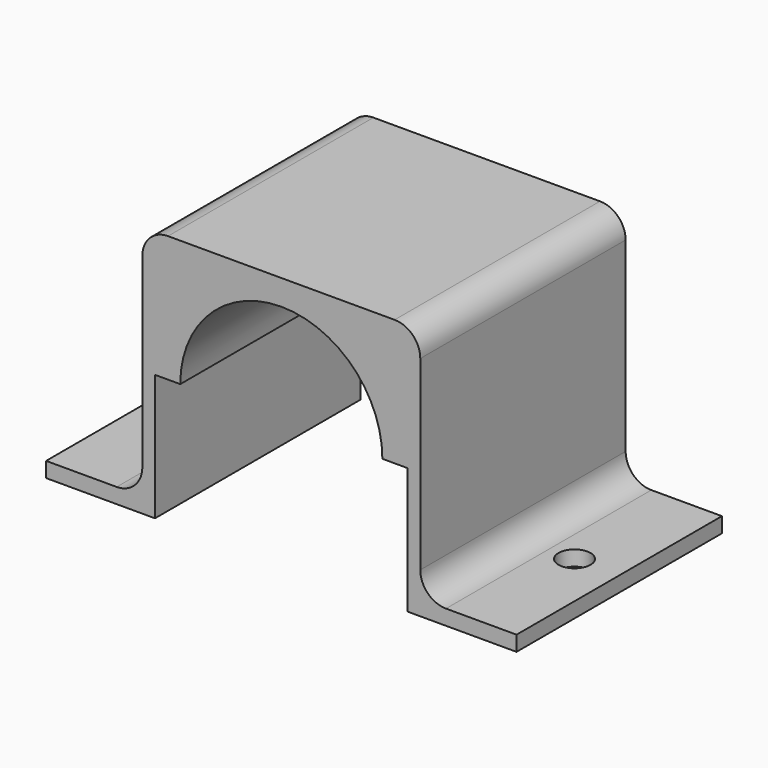
from build123d import *

# Parameters (mm, degrees)
F1_DEPTH = 50.8
F2_R     = 5.08
F3_R     = 5.08
F4_R     = 3.175
F5_DEPTH = 25.4


with BuildPart() as f1:
    # F0 (on Front) → F1 (new body)
    with BuildSketch(Plane.XZ):
        with BuildLine():
            Line((-25, -25), (-25, 0))
            Line((-25, 0), (-20, 0))
            ThreePointArc((-20, 0), (0, 20), (20, 0))
            Line((20, 0), (25, 0))
            Line((25, 0), (25, -25))
            Line((25, -25), (46.55, -25))
            Line((46.55, -25), (46.55, -22))
            Line((46.55, -22), (27.5, -22))
            Line((27.5, -22), (27.5, 0))
            Line((27.5, 0), (27.5, 25))
            Line((27.5, 25), (-27.5, 25))
            Line((-27.5, 25), (-27.5, 0))
            Line((-27.5, 0), (-27.5, -22))
            Line((-27.5, -22), (-46.55, -22))
            Line((-46.55, -22), (-46.55, -25))
            Line((-46.55, -25), (-25, -25))
        make_face()
        with BuildLine():
            Line((-25, -25), (-25, 0))
            Line((-25, 0), (-20, 0))
            ThreePointArc((-20, 0), (0, 20), (20, 0))
            Line((20, 0), (25, 0))
            Line((25, 0), (25, -25))
            Line((25, -25), (46.55, -25))
            Line((46.55, -25), (46.55, -22))
            Line((46.55, -22), (27.5, -22))
            Line((27.5, -22), (27.5, 0))
            Line((27.5, 0), (27.5, 25))
            Line((27.5, 25), (-27.5, 25))
            Line((-27.5, 25), (-27.5, 0))
            Line((-27.5, 0), (-27.5, -22))
            Line((-27.5, -22), (-46.55, -22))
            Line((-46.55, -22), (-46.55, -25))
            Line((-46.55, -25), (-25, -25))
        make_face()
        with BuildLine():
            Line((-25, -25), (-25, 0))
            Line((-25, 0), (-20, 0))
            ThreePointArc((-20, 0), (0, 20), (20, 0))
            Line((20, 0), (25, 0))
            Line((25, 0), (25, -25))
            Line((25, -25), (46.55, -25))
            Line((46.55, -25), (46.55, -22))
            Line((46.55, -22), (27.5, -22))
            Line((27.5, -22), (27.5, 0))
            Line((27.5, 0), (27.5, 25))
            Line((27.5, 25), (-27.5, 25))
            Line((-27.5, 25), (-27.5, 0))
            Line((-27.5, 0), (-27.5, -22))
            Line((-27.5, -22), (-46.55, -22))
            Line((-46.55, -22), (-46.55, -25))
            Line((-46.55, -25), (-25, -25))
        make_face()
    extrude(amount=F1_DEPTH)

    # F2
    f2_edges = [f1.edges().sort_by_distance(p)[0] for p in [
        (-27.5, -25.4, 25),
        (27.5, -25.4, 25),
    ]]
    fillet(f2_edges, radius=F2_R)

    # F3
    f3_edges = [f1.edges().sort_by_distance(p)[0] for p in [
        (-27.5, -25.4, -22),
        (27.5, -25.4, -22),
    ]]
    fillet(f3_edges, radius=F3_R)

    # F4 (on face) → F5 (cut)
    with BuildSketch(Plane.XY.offset(-22)):
        with Locations((-37.7, -25.4)):
            Circle(F4_R)
        with Locations((37.7, -25.4)):
            Circle(F4_R)
    extrude(amount=-F5_DEPTH, mode=Mode.SUBTRACT)


solid = f1.part
